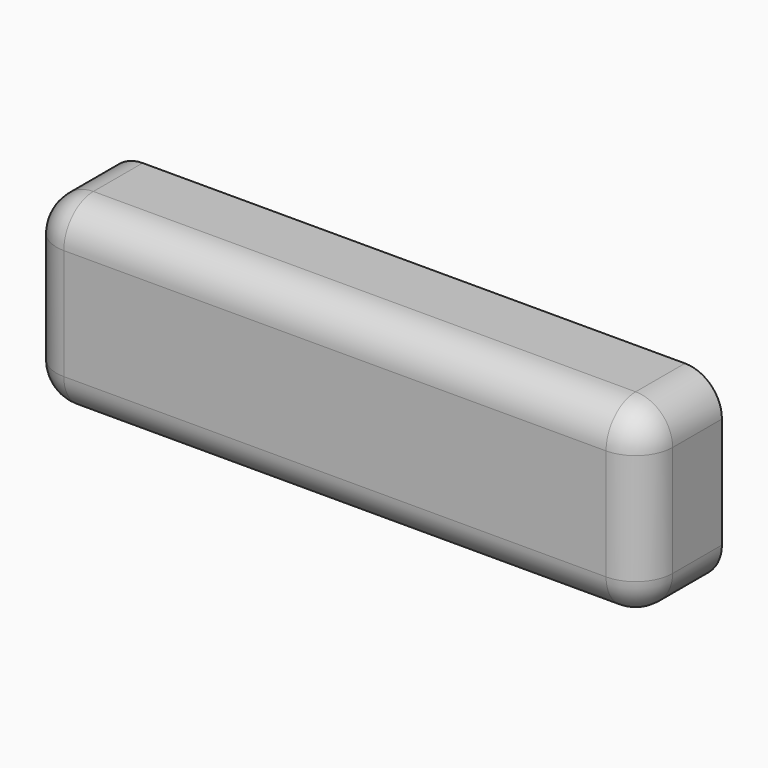
from build123d import *

# Parameters (mm, degrees)
F0_W     = 5
F0_H     = 1.5
F1_DEPTH = 0.8
F2_R     = 0.3


with BuildPart() as f1:
    # F0 (on Front) → F1 (new body)
    with BuildSketch(Plane.XZ):
        Rectangle(F0_W, F0_H)
    extrude(amount=F1_DEPTH)

    # F2
    f2_edges = [f1.edges().sort_by_distance(p)[0] for p in [
        (0, -0.8, 0.75),
        (-2.5, -0.4, 0.75),
        (2.5, -0.4, 0.75),
        (-2.5, -0.8, 0),
        (2.5, -0.8, 0),
        (2.5, -0.4, -0.75),
        (0, -0.8, -0.75),
        (-2.5, -0.4, -0.75),
    ]]
    fillet(f2_edges, radius=F2_R)


solid = f1.part
